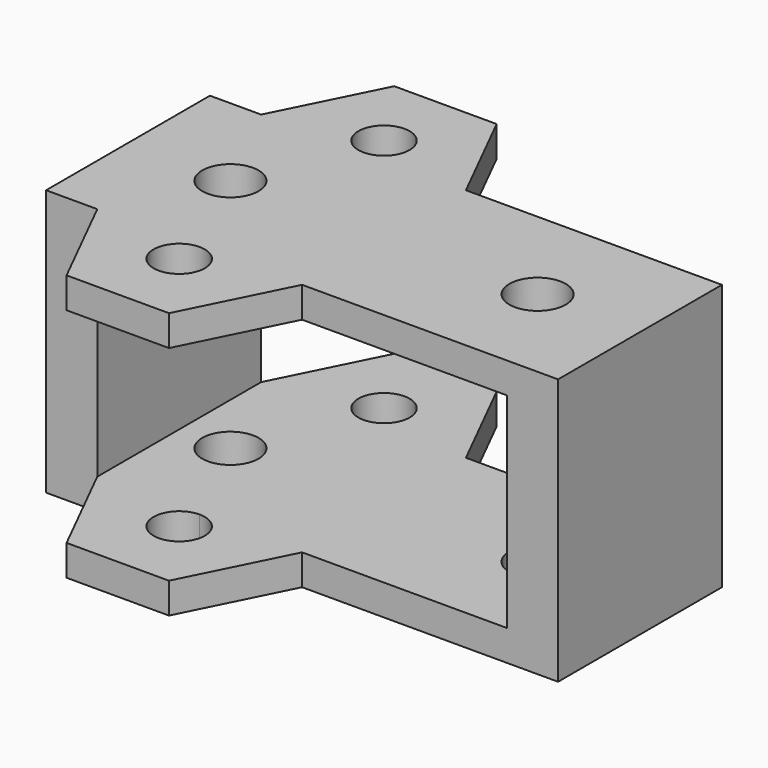
from build123d import *

# Parameters (mm, degrees)
F0_R        = 2.75
F0_W        = 20
F0_H        = 20
F1_DEPTH    = 3
F0_W_2      = 5
F2_DEPTH    = 26
F3_START    = 20
F1_FACE_R   = 2.75
F1_FACE_R_2 = 2.5
F3_DEPTH    = 3


with BuildPart() as f1:
    # F0 (on Top) → F1 (new body)
    with BuildSketch(Plane.XY):
        Polygon((0, 10), (-10, 10), (-10, -10), (0, -10), (10, -10), (10, 10), align=None)
        with Locations((-5, 0)):
            Circle(F0_R, mode=Mode.SUBTRACT)
        Polygon((0, -10), (-10, -10), (-5, -20), (5, -20), (10, -10), align=None)
        with BuildLine():
            ThreePointArc((2.5, -12.5), (-1.767766953, -14.267766953), (0, -10))
            ThreePointArc((0, -10), (1.767766953, -10.732233047), (2.5, -12.5))
        make_face(mode=Mode.SUBTRACT)
        Polygon((-5, 20), (-10, 10), (0, 10), (10, 10), (5, 20), align=None)
        with BuildLine():
            ThreePointArc((2.5, 12.5), (1.767766953, 10.732233047), (0, 10))
            ThreePointArc((0, 10), (-1.767766953, 14.267766953), (2.5, 12.5))
        make_face(mode=Mode.SUBTRACT)
        with Locations((20, 0)):
            Rectangle(F0_W, F0_H)
        with Locations((25, 0)):
            Circle(F0_R, mode=Mode.SUBTRACT)
    extrude(amount=F1_DEPTH)

    # F0 (on Top) → F2 (join)
    with BuildSketch(Plane.XY):
        with Locations((-12.5, 0)):
            Rectangle(F0_W_2, F0_H)
        with Locations((32.5, 0)):
            Rectangle(F0_W_2, F0_H)
    extrude(amount=F2_DEPTH)

    # F1_face (on face) → F3 (join)
    with BuildSketch(Plane(origin=(7.4267013707, 0, 3), x_dir=(1, 0, 0), z_dir=(0, 0, 1)).offset(F3_START)):
        Polygon((-17.4267013707, 10), (-17.4267013707, -10), (-12.4267013707, -20), (-2.4267013707, -20), (2.5732986293, -10), (22.5732986293, -10), (22.5732986293, 10), (2.5732986293, 10), (-2.4267013707, 20), (-12.4267013707, 20), align=None)
        with Locations((-12.4267013707, 0)):
            Circle(F1_FACE_R, mode=Mode.SUBTRACT)
        with Locations((-7.4267013707, -12.5)):
            Circle(F1_FACE_R_2, mode=Mode.SUBTRACT)
        with Locations((-7.4267013707, 12.5)):
            Circle(F1_FACE_R_2, mode=Mode.SUBTRACT)
        with Locations((17.5732986293, 0)):
            Circle(F1_FACE_R, mode=Mode.SUBTRACT)
    extrude(amount=F3_DEPTH)


solid = f1.part
